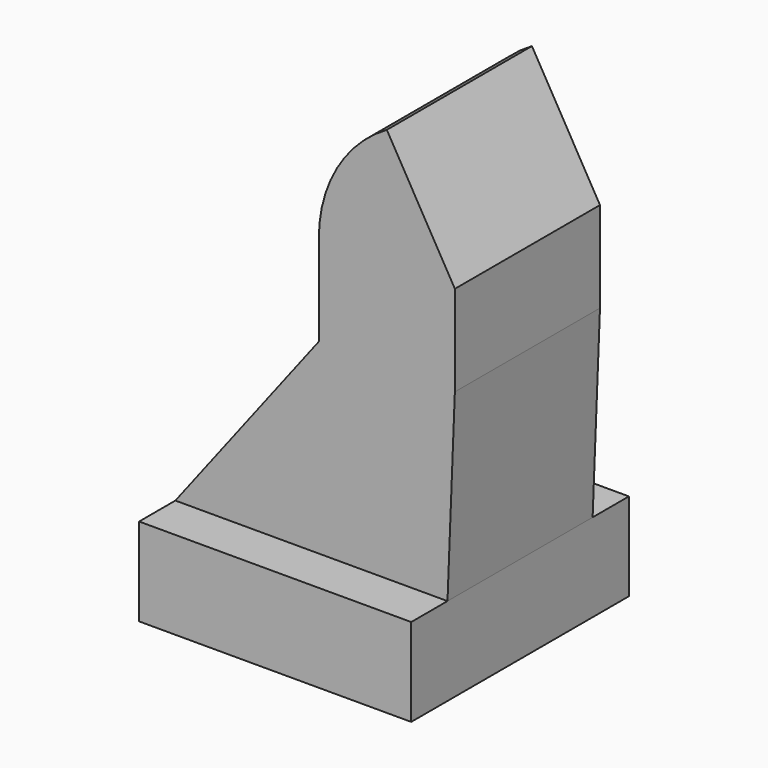
from build123d import *

# Parameters (mm, degrees)
F0_W      = 76.2
F0_H      = 24.6256076701
F1_DEPTH  = 38.1
F0_W_2    = 38.1
F0_H_2    = 25.4
F2_DEPTH  = 25.4
F2_FACE_W = 38.1
F2_FACE_H = 50.8
F3_ANGLE  = 60


with BuildPart() as f1:
    # F0 (on Front) → F1 (new body, symmetric)
    with BuildSketch(Plane.XZ):
        with Locations((-0.260655035, 0)):
            Rectangle(F0_W, F0_H)
    extrude(amount=F1_DEPTH, both=True)

    # F0 (on Front) → F2 (join, symmetric)
    with BuildSketch(Plane.XZ):
        with Locations((-0.260655035, 0)):
            Rectangle(F0_W, F0_H)
        Polygon((-38.360655035, 12.3128038351), (37.839344965, 12.3128038351), (39.9018798504, 64.5671242428), (1.8018798504, 64.5671242428), align=None)
        with Locations((20.8518798504, 77.2671242428)):
            Rectangle(F0_W_2, F0_H_2)
    extrude(amount=F2_DEPTH, both=True)

    # F2_face (on face) → F3 (revolve)
    with BuildSketch(Plane(origin=(20.8518798504, 0, 89.9671242428), x_dir=(1, 0, 0), z_dir=(0, 0, 1))):
        Rectangle(F2_FACE_W, F2_FACE_H)
    revolve(axis=Axis((39.9018798504, 0, 89.9671242428), (0, 1, 0)), revolution_arc=F3_ANGLE)


solid = f1.part
